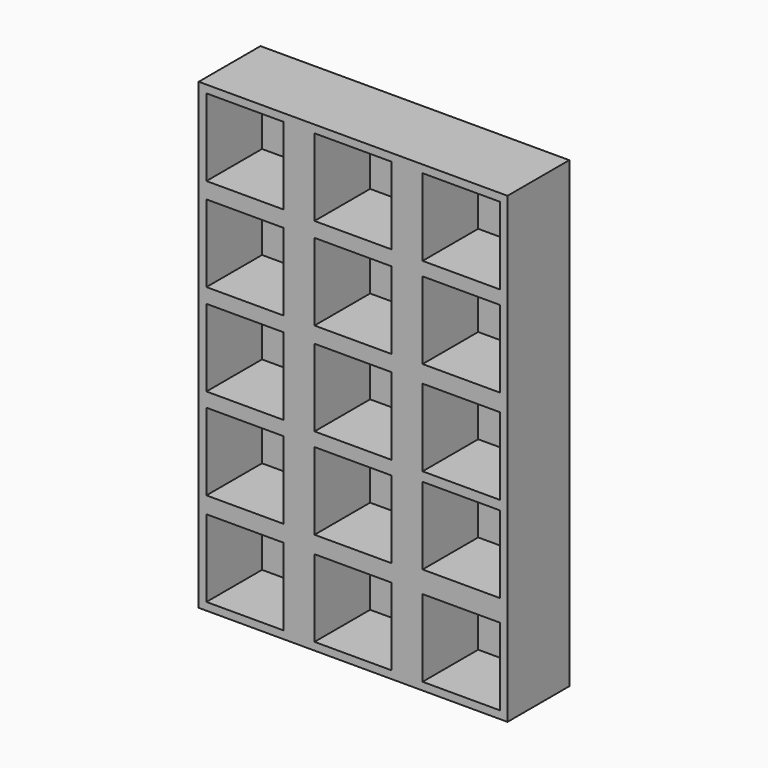
from build123d import *

# Parameters (mm, degrees)
F0_W     = 25.4
F0_H     = 25.4
F1_DEPTH = 2.54
F0_W_2   = 101.6
F0_H_2   = 152.4
F2_DEPTH = 25.4


with BuildPart() as f1:
    # F0 (on Front) → F1 (new body)
    with BuildSketch(Plane.XZ):
        with Locations((-35.56, 60.96)):
            Rectangle(F0_W, F0_H)
        Polygon((12.7, 48.26), (12.7, 73.66), (0, 73.66), (-12.7, 73.66), (-12.7, 48.26), align=None)
        with Locations((35.56, 60.96)):
            Rectangle(F0_W, F0_H)
        with Locations((35.56, 31.078152)):
            Rectangle(F0_W, F0_H)
        with Locations((0, 30.663133)):
            Rectangle(F0_W, F0_H)
        Polygon((-22.86, 42.948115), (-48.26, 42.948115), (-48.26, 30.248115), (-48.26, 17.548115), (-22.86, 17.548115), align=None)
        Polygon((-22.86, 12.7), (-48.26, 12.7), (-48.26, 0), (-48.26, -12.7), (-22.86, -12.7), align=None)
        Rectangle(F0_W, F0_H)
        Polygon((48.26, 0), (48.26, 12.7), (22.86, 12.7), (22.86, -12.7), (48.26, -12.7), align=None)
        Polygon((48.26, -28.43516), (48.26, -15.73516), (22.86, -15.73516), (22.86, -41.13516), (48.26, -41.13516), align=None)
        with Locations((0, -29.929649)):
            Rectangle(F0_W, F0_H)
        Polygon((-22.86, -17.395241), (-48.26, -17.395241), (-48.26, -30.095241), (-48.26, -42.795241), (-22.86, -42.795241), align=None)
        with Locations((-35.56, -60.96)):
            Rectangle(F0_W, F0_H)
        Polygon((0, -73.66), (12.7, -73.66), (12.7, -48.26), (-12.7, -48.26), (-12.7, -73.66), align=None)
        with Locations((35.56, -60.96)):
            Rectangle(F0_W, F0_H)
    extrude(amount=F1_DEPTH)


with BuildPart() as f2:
    # F0 (on Front) → F2 (new body)
    with BuildSketch(Plane.XZ):
        Rectangle(F0_W_2, F0_H_2)
        Polygon((22.86, 73.66), (48.26, 73.66), (48.26, 48.26), (48.26, 43.778152), (48.26, 18.378152), (48.26, 12.7), (48.26, 0), (48.26, -12.7), (48.26, -15.73516), (48.26, -28.43516), (48.26, -41.13516), (48.26, -48.26), (48.26, -73.66), (22.86, -73.66), (12.7, -73.66), (0, -73.66), (-12.7, -73.66), (-22.86, -73.66), (-48.26, -73.66), (-48.26, -48.26), (-48.26, -42.795241), (-48.26, -30.095241), (-48.26, -17.395241), (-48.26, -12.7), (-48.26, 0), (-48.26, 12.7), (-48.26, 17.548115), (-48.26, 30.248115), (-48.26, 42.948115), (-48.26, 48.26), (-48.26, 73.66), (-22.86, 73.66), (-12.7, 73.66), (0, 73.66), (12.7, 73.66), align=None, mode=Mode.SUBTRACT)
        Polygon((22.86, 48.26), (22.86, 73.66), (12.7, 73.66), (12.7, 48.26), (-12.7, 48.26), (-12.7, 73.66), (-22.86, 73.66), (-22.86, 48.26), (-48.26, 48.26), (-48.26, 42.948115), (-22.86, 42.948115), (-22.86, 17.548115), (-48.26, 17.548115), (-48.26, 12.7), (-22.86, 12.7), (-22.86, -12.7), (-48.26, -12.7), (-48.26, -17.395241), (-22.86, -17.395241), (-22.86, -42.795241), (-48.26, -42.795241), (-48.26, -48.26), (-22.86, -48.26), (-22.86, -73.66), (-12.7, -73.66), (-12.7, -48.26), (12.7, -48.26), (12.7, -73.66), (22.86, -73.66), (22.86, -48.26), (48.26, -48.26), (48.26, -41.13516), (22.86, -41.13516), (22.86, -15.73516), (48.26, -15.73516), (48.26, -12.7), (22.86, -12.7), (22.86, 12.7), (48.26, 12.7), (48.26, 18.378152), (22.86, 18.378152), (22.86, 43.778152), (48.26, 43.778152), (48.26, 48.26), align=None)
        with Locations((0, -29.929649)):
            Rectangle(F0_W, F0_H, mode=Mode.SUBTRACT)
        Rectangle(F0_W, F0_H, mode=Mode.SUBTRACT)
        with Locations((0, 30.663133)):
            Rectangle(F0_W, F0_H, mode=Mode.SUBTRACT)
    extrude(amount=F2_DEPTH)


solid = Compound([f1.part, f2.part])
